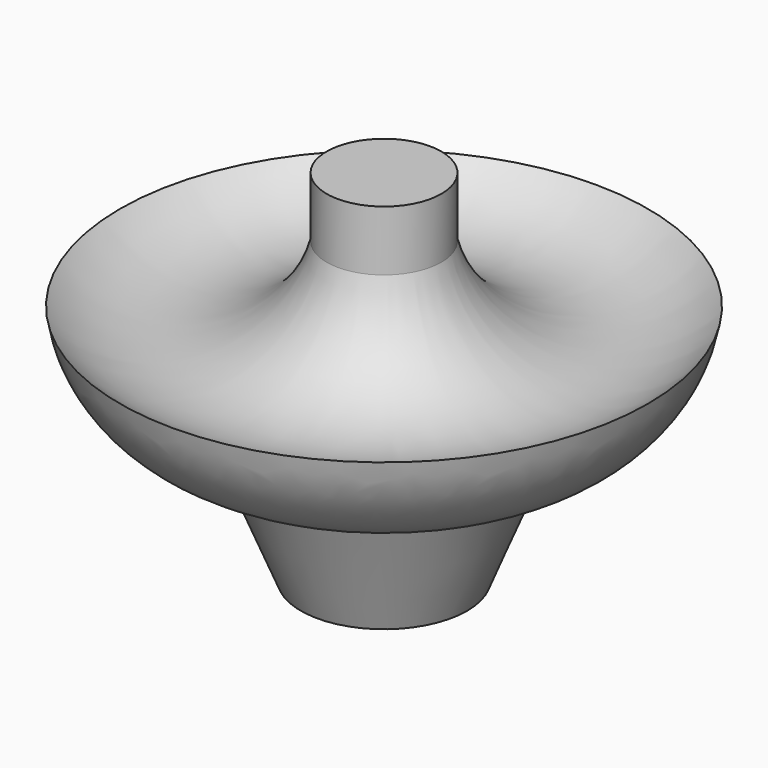
from build123d import *


with BuildPart() as f1:
    # F0 (on Front) → F1 (revolve)
    with BuildSketch(Plane.XZ):
        with BuildLine():
            Line((0, 51.864326), (0, 0))
            Line((0, 0), (12.032479, 0))
            Line((12.032479, 0), (19.500941, 18.256217))
            ThreePointArc((19.500941, 18.256217), (31.806286, 23.213512), (38.172096, 34.852788))
            ThreePointArc((38.172096, 34.852788), (20.787572, 30.190553), (8.298263, 43.151081))
            Line((8.298263, 43.151081), (8.298263, 51.864326))
            Line((8.298263, 51.864326), (0, 51.864326))
        make_face()
    revolve(axis=Axis((0, 0, 25.932163), (0, 0, 1)))


solid = f1.part
